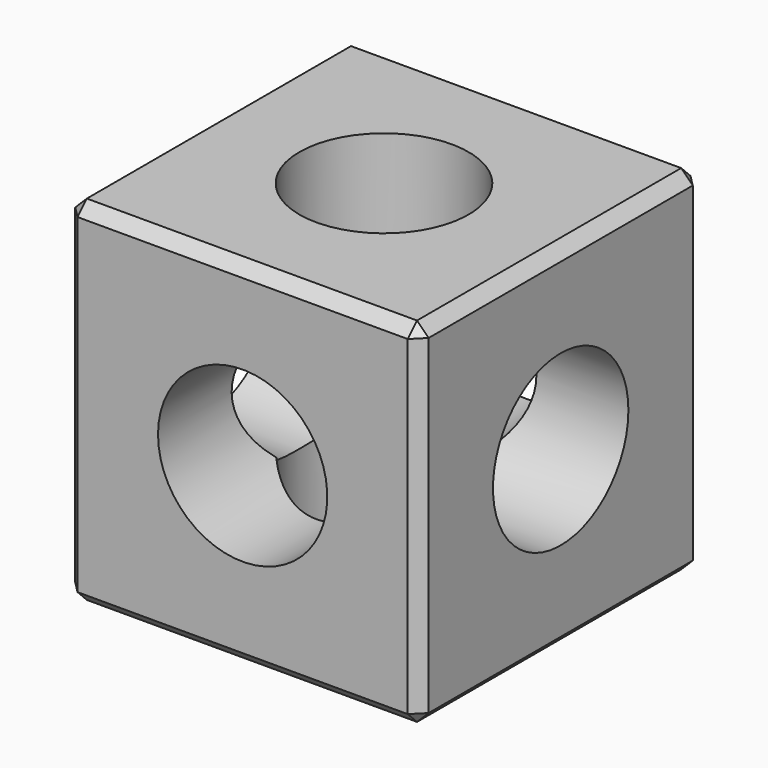
from build123d import *

# Parameters (mm, degrees)
F0_W       = 152.4
F0_H       = 152.4
F1_DEPTH   = 152.4
F2_SIZE    = 5
F3_R       = 36.5
F4_DEPTH   = 152.401
F7_D       = 73
F7_ON_F5_D = 73


with BuildPart() as f1:
    # F0 (on Front) → F1 (new body)
    with BuildSketch(Plane.XZ):
        Rectangle(F0_W, F0_H)
    extrude(amount=F1_DEPTH)

    # F2
    f2_edges = [f1.edges().sort_by_distance(p)[0] for p in [
        (0, -152.4, 76.2),
        (-76.2, -76.2, 76.2),
        (76.2, -76.2, 76.2),
        (0, 0, 76.2),
        (76.2, -152.4, 0),
        (-76.2, -152.4, 0),
        (0, -152.4, -76.2),
        (76.2, -76.2, -76.2),
        (76.2, 0, 0),
        (-76.2, 0, 0),
        (0, 0, -76.2),
        (-76.2, -76.2, -76.2),
    ]]
    chamfer(f2_edges, length=F2_SIZE)

    # F3 (on face) → F4 (cut, through all)
    with BuildSketch(Plane(origin=(0, 0, 0), x_dir=(-1, 0, 0), z_dir=(0, 1, 0))):
        Circle(F3_R)
    extrude(amount=-F4_DEPTH, mode=Mode.SUBTRACT)

    # F7 (through all)
    with Locations(Plane(origin=(-76.2, 0, 0), x_dir=(0, -1, 0), z_dir=(-1, 0, 0))):
        with Locations((76.2, 0)):
            Hole(F7_D / 2)

    # F7 on F5 (through all)
    with Locations(Plane(origin=(0, 0, -76.2), x_dir=(1, 0, 0), z_dir=(0, 0, -1))):
        with Locations((0, 76.2)):
            Hole(F7_ON_F5_D / 2)


solid = f1.part
